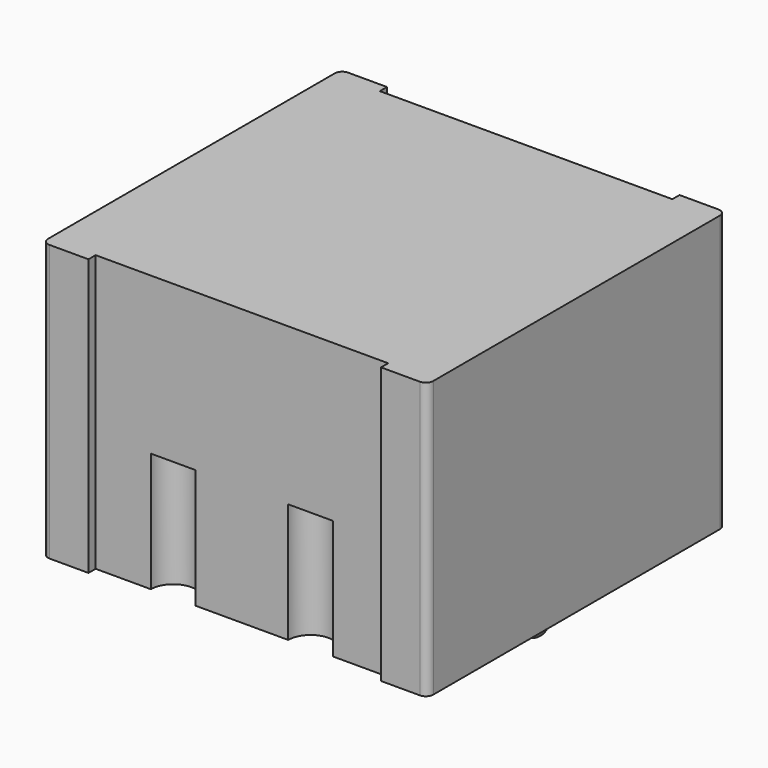
from build123d import *

# Parameters (mm, degrees)
SKETCH_W        = 12.9
SKETCH_H        = 12.5
PAD_DEPTH       = 9.25
FILLET_R        = 0.25
SKETCH001_W     = 9.8
SKETCH001_H     = 0.3
POCKET_DEPTH    = 9.251
SKETCH002_R     = 0.75
POCKET001_DEPTH = 4
PAD001_DEPTH    = 3.95
FILLET001_R     = 0.44
PAD002_DEPTH    = 5.4
FILLET002_R     = 0.44


with BuildPart() as part:
    # Sketch → Pad (new body)
    with BuildSketch(Plane.XY):
        Rectangle(SKETCH_W, SKETCH_H)
    extrude(amount=-PAD_DEPTH)

    # Fillet
    fillet_edges = [part.edges().sort_by_distance(p)[0] for p in [
        (6.45, -6.25, -4.625),
        (-6.45, -6.25, -4.625),
        (-6.45, 6.25, -4.625),
        (6.45, 6.25, -4.625),
    ]]
    fillet(fillet_edges, radius=FILLET_R)

    # Sketch001 (on Face2 of Fillet) → Pocket (cut, through all)
    with BuildSketch(Plane.XY):
        with Locations((0, -6.1)):
            Rectangle(SKETCH001_W, SKETCH001_H)
        with Locations((0, 6.1)):
            Rectangle(SKETCH001_W, SKETCH001_H)
    extrude(amount=-POCKET_DEPTH, mode=Mode.SUBTRACT)

    # Sketch002 (on Face4 of Pocket) → Pocket001 (cut)
    with BuildSketch(Plane(origin=(0, 0, -9.25), x_dir=(1, 0, 0), z_dir=(0, 0, -1))):
        with Locations((-2.3, 5.95)):
            Circle(SKETCH002_R)
        with Locations((2.3, 5.95)):
            Circle(SKETCH002_R)
        with Locations((-2.3, -5.95)):
            Circle(SKETCH002_R)
        with Locations((2.3, -5.95)):
            Circle(SKETCH002_R)
    extrude(amount=-POCKET001_DEPTH, mode=Mode.SUBTRACT)

    # Sketch003 → Pad001 (join, symmetric)
    with BuildSketch(Plane.XZ):
        with BuildLine():
            ThreePointArc((-1.85, -9.25), (-2.3, -8.8), (-2.75, -9.25))
            Line((-2.75, -9.25), (-2.75, -9.75))
            ThreePointArc((-2.75, -9.75), (-2.3, -10.2), (-1.85, -9.75))
            Line((-1.85, -9.75), (-1.85, -9.25))
        make_face()
        with BuildLine():
            ThreePointArc((2.75, -9.25), (2.3, -8.8), (1.85, -9.25))
            Line((1.85, -9.25), (1.85, -9.75))
            ThreePointArc((1.85, -9.75), (2.3, -10.2), (2.75, -9.75))
            Line((2.75, -9.75), (2.75, -9.25))
        make_face()
    extrude(amount=PAD001_DEPTH, both=True)

    # Fillet001
    fillet001_edges = [part.edges().sort_by_distance(p)[0] for p in [
        (-2.3, 3.95, -10.2),
        (2.3, 3.95, -10.2),
        (2.3, -3.95, -10.2),
        (-2.3, -3.95, -10.2),
    ]]
    fillet(fillet001_edges, radius=FILLET001_R)

    # Sketch004 → Pad002 (join, symmetric)
    with BuildSketch(Plane.YZ):
        with BuildLine():
            ThreePointArc((0.45, -9.25), (0, -8.8), (-0.45, -9.25))
            Line((-0.45, -9.25), (-0.45, -10))
            ThreePointArc((-0.45, -10), (0, -10.45), (0.45, -10))
            Line((0.45, -10), (0.45, -9.25))
        make_face()
    extrude(amount=PAD002_DEPTH, both=True)

    # Fillet002
    fillet002_edges = [part.edges().sort_by_distance(p)[0] for p in [
        (-5.4, 0, -10.45),
        (5.4, 0, -10.45),
    ]]
    fillet(fillet002_edges, radius=FILLET002_R)


with BuildPart() as part_1:
    # Body placement: moved
    add(part.part.moved(Location((0, 0, -0.3))))


solid = part_1.part
